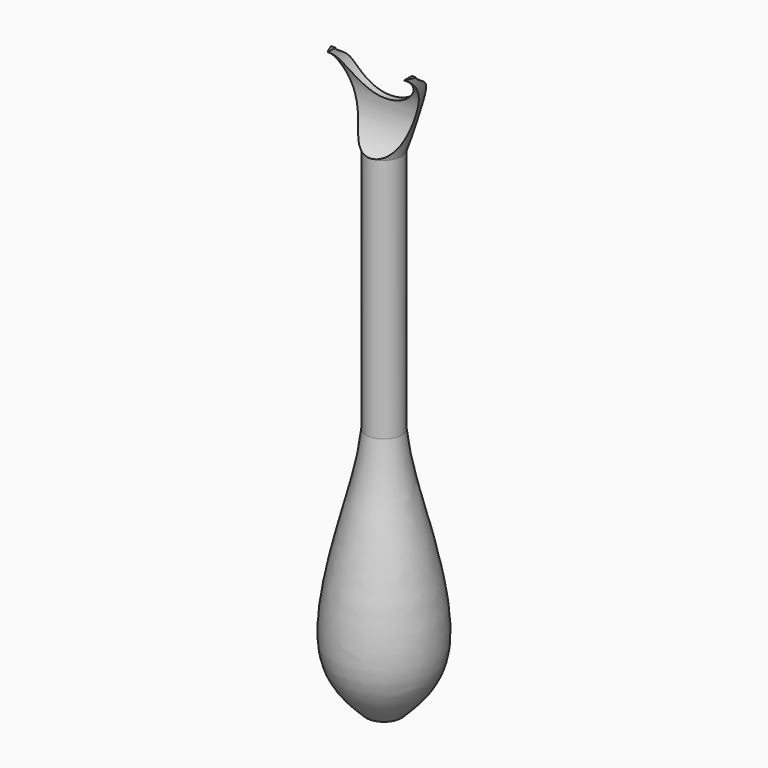
from build123d import *

# Parameters (mm, degrees)
F2_R     = 8.6294518451
F3_DEPTH = 15.9
F4_R     = 9.5797651774
F5_DEPTH = 25.26
F7_DEPTH = 12.5
F8_R     = 11.1941733689
F9_DEPTH = 25.2


with BuildPart() as f1:
    # F0 (on Front) → F1 (revolve)
    with BuildSketch(Plane.XZ):
        with BuildLine():
            Line((-4, -56.1238154769), (0, -55.9879206121))
            Line((0, -55.9879206121), (0, 55.308457464))
            Line((0, 55.308457464), (-4, 55.308457464))
            Line((-4, 55.308457464), (-4, 0))
            add(Edge.make_bspline(
                [(-4, 0), (-4.2978743618, -2.5310483487), (-5.1511997649, -9.781782651), (-15.9323021167, -44.3003172104), (-7.4001731394, -52.754646575), (-4, -56.1238154769)],
                knots=[0, 0, 0, 0, 0.2438916247, 0.698680201, 1, 1, 1, 1], degree=3))
        make_face()
        Polygon((-4, 55.308457464), (0, 55.308457464), (0, 74.0120793879), (-10, 74.0120793879), align=None)
    revolve(axis=Axis((0, 0, 9.0120793879), (0, 0, 1)))

    # F2 (on Front) → F3 (cut, symmetric)
    with BuildSketch(Plane.XZ):
        with Locations((0, 74.0859210491)):
            Circle(F2_R)
    extrude(amount=F3_DEPTH, both=True, mode=Mode.SUBTRACT)

    # F4 (on Right) → F5 (cut, symmetric)
    with BuildSketch(Plane.YZ):
        with Locations((-9.7152357921, 65.5767843127)):
            Circle(F4_R)
    extrude(amount=F5_DEPTH, both=True, mode=Mode.SUBTRACT)

    # F6 (on Right) → F7 (cut, symmetric)
    with BuildSketch(Plane.YZ):
        with BuildLine():
            add(Edge.make_bspline(
                [(-2.9022023082, 74.0886032581), (-2.9915712175, 73.1742643163), (4.0024250882, 72.1685450125), (-0.4768448595, 52.234373551), (13.8351558718, 55.4274191607), (3.2439735556, 59.5225413425), (12.8654223196, 66.114960491), (6.8074609438, 79.8147578413), (-2.7867786177, 75.2695103075), (-2.9022023082, 74.0886032581)],
                knots=[0, 0, 0, 0, 0.1109759393, 0.3098038297, 0.4348610228, 0.5494522717, 0.6905350112, 0.856669925, 1, 1, 1, 1], degree=3))
        make_face()
    extrude(amount=F7_DEPTH, both=True, mode=Mode.SUBTRACT)

    # F8 (on Right) → F9 (cut, symmetric)
    with BuildSketch(Plane.YZ):
        with Locations((-10.785324499, 64.2180517316)):
            Circle(F8_R)
    extrude(amount=F9_DEPTH, both=True, mode=Mode.SUBTRACT)


solid = f1.part
